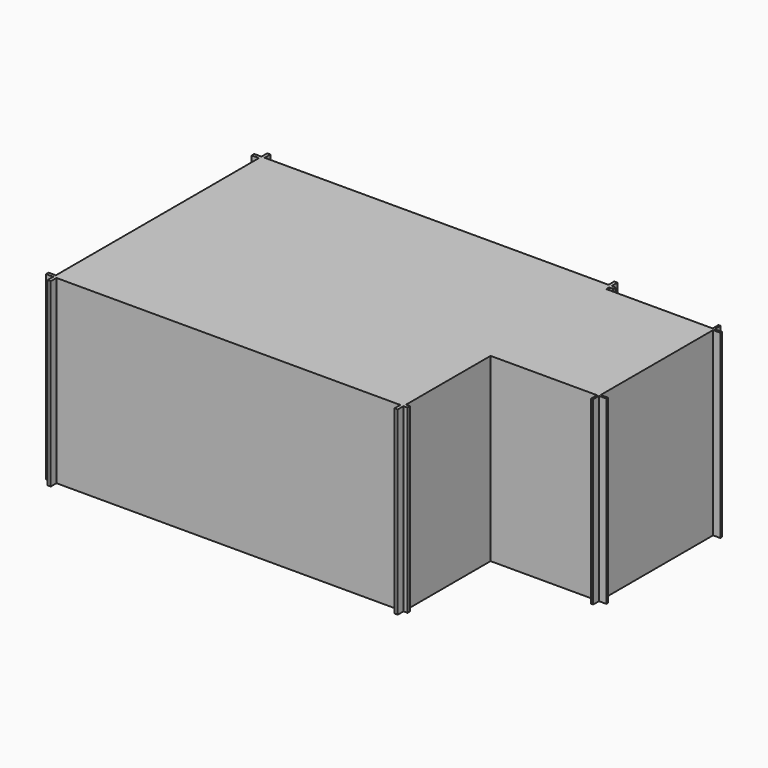
from build123d import *

# Parameters (mm, degrees)
F0_W     = 4756
F0_H     = 3512
F0_W_2   = 44
F0_W_3   = 1472
F0_H_2   = 1944
F0_W_4   = 28
F0_H_3   = 28
F0_H_4   = 44
F0_W_5   = 100
F0_H_5   = 100
F0_W_6   = 56
F1_DEPTH = 2500


with BuildPart() as f1:
    # F0 (on Top) → F1 (new body)
    with BuildSketch(Plane.XY):
        Polygon((-81.9130690247, 30.8643540591), (-125.9130690247, 30.8643540591), (-125.9130690247, -3481.1356459409), (-81.9130690247, -3481.1356459409), (-81.9130690247, -2019.1356459409), (-81.9130690247, -1991.1356459409), (-81.9130690247, -47.1356459409), (-81.9130690247, -19.1356459409), align=None)
        with Locations((-2503.9130690247, -1725.1356459409)):
            Rectangle(F0_W, F0_H)
        with Locations((-4903.9130690247, -1725.1356459409)):
            Rectangle(F0_W_2, F0_H)
        with Locations((654.0869309753, -1019.1356459409)):
            Rectangle(F0_W_3, F0_H_2)
        with Locations((1404.0869309753, -33.1356459409)):
            Rectangle(F0_W_4, F0_H_3)
        with Locations((-103.9130690247, -3503.1356459409)):
            Rectangle(F0_W_2, F0_H_4)
        with Locations((-4903.9130690247, 52.8643540591)):
            Rectangle(F0_W_2, F0_H_4)
        with Locations((1404.0869309753, -1019.1356459409)):
            Rectangle(F0_W_4, F0_H_2)
        with Locations((654.0869309753, -33.1356459409)):
            Rectangle(F0_W_3, F0_H_3)
        with Locations((1404.0869309753, -2005.1356459409)):
            Rectangle(F0_W_4, F0_H_3)
        with Locations((-2503.9130690247, -3503.1356459409)):
            Rectangle(F0_W, F0_H_4)
        with Locations((-4975.9130690247, 52.8643540591)):
            Rectangle(F0_W_5, F0_H_4)
        with Locations((-4903.9130690247, -3503.1356459409)):
            Rectangle(F0_W_2, F0_H_4)
        with Locations((-4975.9130690247, -3503.1356459409)):
            Rectangle(F0_W_5, F0_H_4)
        with Locations((654.0869309753, -2005.1356459409)):
            Rectangle(F0_W_3, F0_H_3)
        with Locations((1468.0869309753, -33.1356459409)):
            Rectangle(F0_W_5, F0_H_3)
        with Locations((1468.0869309753, -2005.1356459409)):
            Rectangle(F0_W_5, F0_H_3)
        with Locations((-2503.9130690247, 52.8643540591)):
            Rectangle(F0_W, F0_H_4)
        with Locations((-4903.9130690247, 124.8643540591)):
            Rectangle(F0_W_2, F0_H_5)
        with Locations((-103.9130690247, 124.8643540591)):
            Rectangle(F0_W_2, F0_H_5)
        with Locations((-103.9130690247, 52.8643540591)):
            Rectangle(F0_W_2, F0_H_4)
        with Locations((-4903.9130690247, -3575.1356459409)):
            Rectangle(F0_W_2, F0_H_5)
        with Locations((-103.9130690247, -3575.1356459409)):
            Rectangle(F0_W_2, F0_H_5)
        with Locations((-53.9130690247, -3503.1356459409)):
            Rectangle(F0_W_6, F0_H_4)
        with Locations((1404.0869309753, 30.8643540591)):
            Rectangle(F0_W_4, F0_H_5)
        with Locations((1404.0869309753, -2069.1356459409)):
            Rectangle(F0_W_4, F0_H_5)
        with Locations((-53.9130690247, 52.8643540591)):
            Rectangle(F0_W_6, F0_H_4)
    extrude(amount=F1_DEPTH)


solid = f1.part
